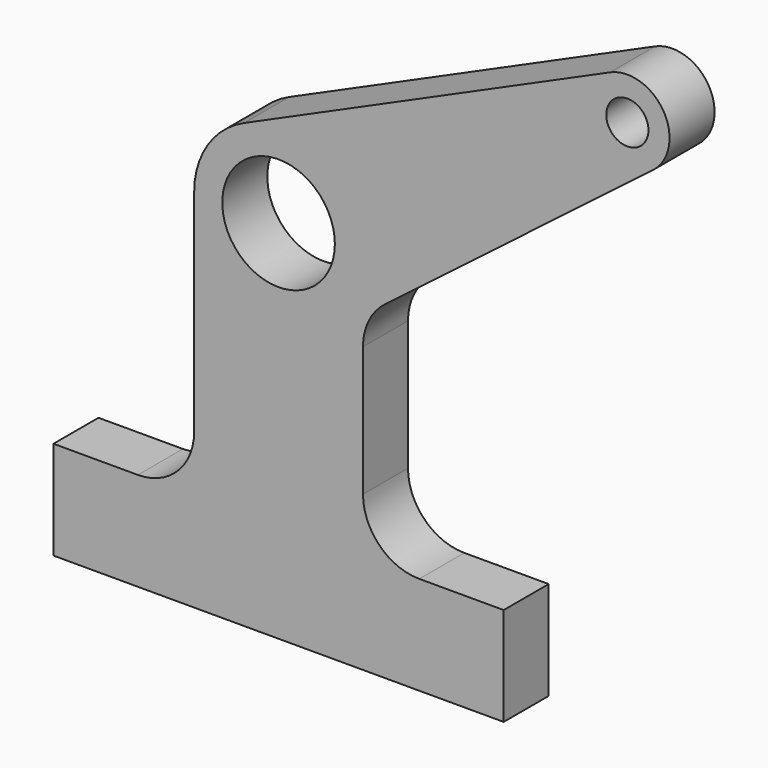
from build123d import *

# Parameters (mm, degrees)
F0_R     = 2
F0_R_2   = 0.75
F1_DEPTH = 2


with BuildPart() as f1:
    # F0 (on Front) → F1 (new body)
    with BuildSketch(Plane.XZ):
        with BuildLine():
            Line((66.67972, 15.511518), (53.67188, 9.696988))
            ThreePointArc((53.67188, 9.696988), (52.378923, 8.590215), (51.896142, 6.958159))
            Line((51.896142, 6.958159), (51.896142, -0.541841))
            ThreePointArc((51.896142, -0.541841), (51.310356, -1.956054), (49.896142, -2.541841))
            Line((49.896142, -2.541841), (46.896142, -2.541841))
            Line((46.896142, -2.541841), (46.896142, -6.041841))
            Line((46.896142, -6.041841), (62.896142, -6.041841))
            Line((62.896142, -6.041841), (62.896142, -2.541841))
            Line((62.896142, -2.541841), (59.896142, -2.541841))
            ThreePointArc((59.896142, -2.541841), (58.481929, -1.956054), (57.896142, -0.541841))
            Line((57.896142, -0.541841), (57.896142, 4.067953))
            ThreePointArc((57.896142, 4.067953), (58.102761, 4.953268), (58.679924, 5.65566))
            Line((58.679924, 5.65566), (68.204015, 12.951323))
            ThreePointArc((68.204015, 12.951323), (68.580709, 14.909467), (66.67972, 15.511518))
        make_face()
        with Locations((54.896142, 6.958159)):
            Circle(F0_R, mode=Mode.SUBTRACT)
        with Locations((67.291851, 14.142103)):
            Circle(F0_R_2, mode=Mode.SUBTRACT)
    extrude(amount=F1_DEPTH)


solid = f1.part
